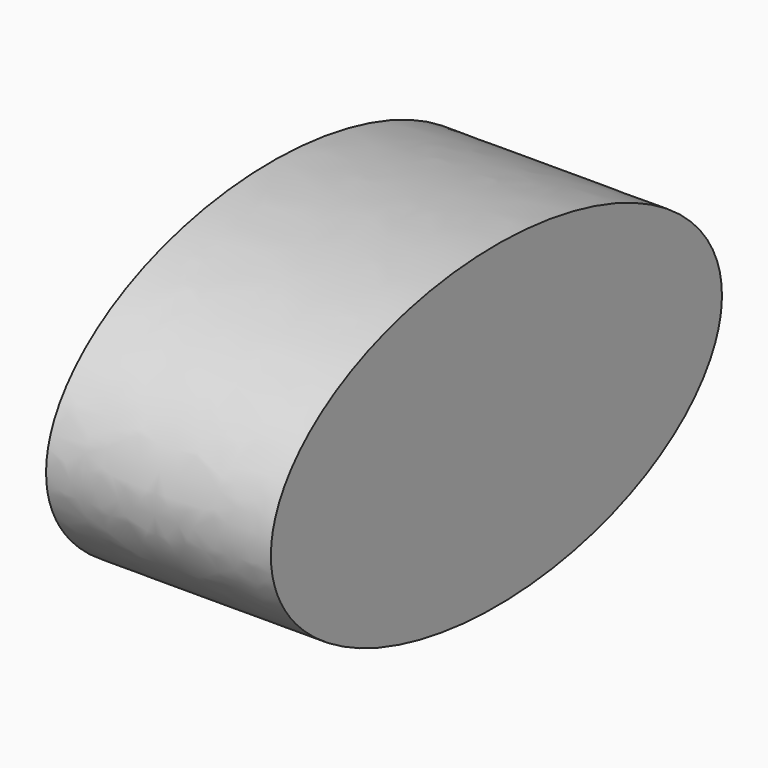
from build123d import *

# Parameters (mm, degrees)
F1_DEPTH = 61.722


with BuildPart() as f1:
    # F0 (on Right) → F1 (new body)
    with BuildSketch(Plane.YZ):
        with BuildLine():
            add(Edge.make_bspline(
                [(77.385262, 0), (77.385262, 75.706169), (-38.692631, 37.853084), (-154.770523, 0), (-38.692631, -37.853084), (77.385262, -75.706169), (77.385262, 0)],
                knots=[0, 0, 0, 2.094395, 2.094395, 4.18879, 4.18879, 6.283185, 6.283185, 6.283185], degree=2, weights=[1, 0.5, 1, 0.5, 1, 0.5, 1]))
        make_face()
    extrude(amount=F1_DEPTH)


solid = f1.part
